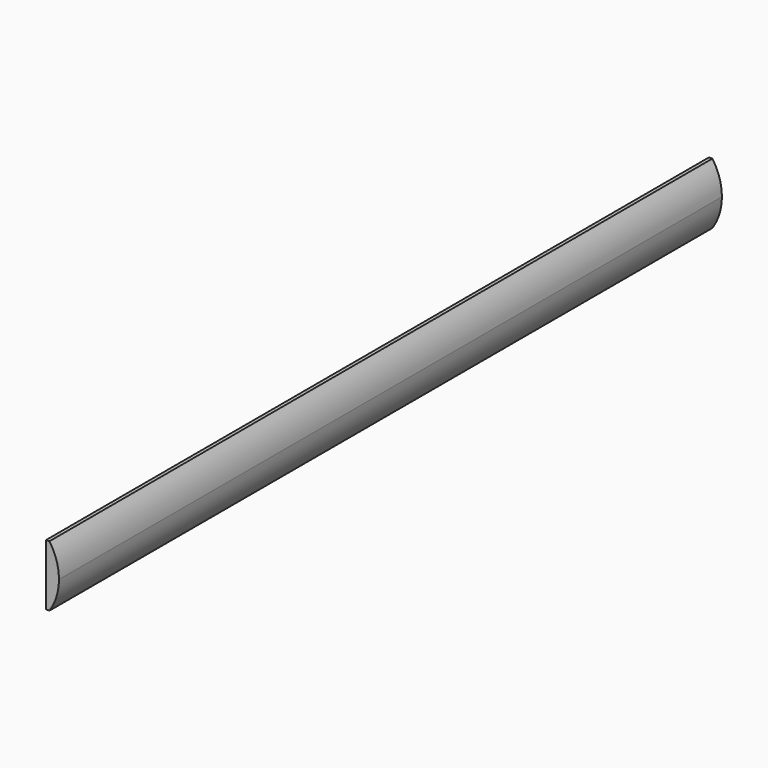
from build123d import *

# Parameters (mm, degrees)
F1_DEPTH = 1220


with BuildPart() as f1:
    # F0 (on Front) → F1 (new body)
    with BuildSketch(Plane.XZ):
        with BuildLine():
            Line((0, 45), (0, 0))
            Line((0, 0), (5, 0))
            ThreePointArc((5, 0), (15.419175, 21.436257), (19, 45))
            Line((19, 45), (0, 45))
        make_face()
        with BuildLine():
            Line((0, 90), (0, 45))
            Line((0, 45), (19, 45))
            ThreePointArc((19, 45), (15.419175, 68.563743), (5, 90))
            Line((5, 90), (0, 90))
        make_face()
    extrude(amount=F1_DEPTH)


solid = f1.part
